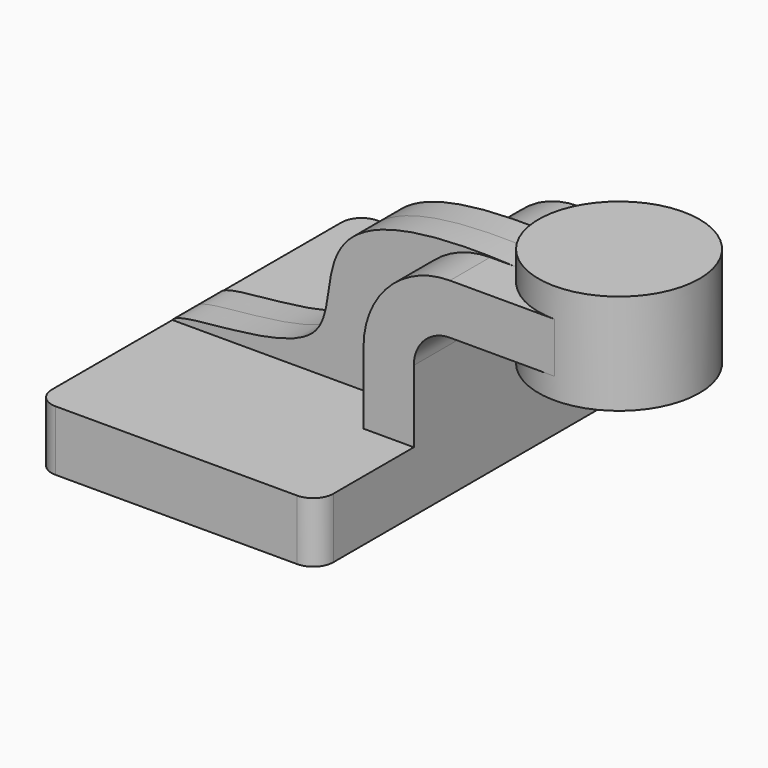
from build123d import *

# Parameters (mm, degrees)
F1_DEPTH = 63.5
F0_W     = 25.4
F0_H     = 15.875
F2_DEPTH = 25.4
F3_DEPTH = 9.525
F5_R     = 6.35


with BuildPart() as f1:
    # F0 (on Front) → F1 (new body, symmetric)
    with BuildSketch(Plane.XZ):
        Polygon((-44.45, -9.525), (44.45, -9.525), (44.45, 9.525), (28.575, 9.525), (-44.45, 9.525), align=None)
    extrude(amount=F1_DEPTH, both=True)

    # F0 (on Front) → F2 (join, symmetric)
    with BuildSketch(Plane.XZ):
        with BuildLine():
            Line((28.575, 9.525), (44.45, 9.525))
            Line((44.45, 9.525), (44.45, 32.2810681378))
            ThreePointArc((44.45, 32.2810681378), (47.7894660102, 40.3432522706), (55.851650143, 43.6827182808))
            Line((55.851650143, 43.6827182808), (63.5, 43.6827182808))
            Line((63.5, 43.6827182808), (63.5, 59.5577182808))
            Line((63.5, 59.5577182808), (55.851650143, 59.5577182808))
            ThreePointArc((55.851650143, 59.5577182808), (36.5641458588, 51.568572422), (28.575, 32.2810681378))
            Line((28.575, 32.2810681378), (28.575, 9.525))
        make_face()
        with Locations((76.2, 51.6202182808)):
            Rectangle(F0_W, F0_H)
    extrude(amount=F2_DEPTH, both=True)

    # F0 (on Front) → F3 (join, symmetric)
    with BuildSketch(Plane.XZ):
        with BuildLine():
            add(Edge.make_bspline(
                [(-44.45, 9.525), (-42.0993748289, 13.5310159807), (31.447590693, 8.169184866), (-11.7146146139, 63.4179972105), (63.5, 59.5577182808)],
                knots=[0, 0, 0, 0, 0.4393913897, 1, 1, 1, 1], degree=3))
            Line((-44.45, 9.525), (28.575, 9.525))
            Line((28.575, 9.525), (28.575, 32.2810681378))
            ThreePointArc((28.575, 32.2810681378), (36.5641458588, 51.568572422), (55.851650143, 59.5577182808))
            Line((55.851650143, 59.5577182808), (63.5, 59.5577182808))
        make_face()
    extrude(amount=F3_DEPTH, both=True)

    # F0 (on Front) → F4 (revolve)
    with BuildSketch(Plane.XZ):
        Polygon((88.9, 68.7322870837), (88.9, 59.5577182808), (88.9, 43.6827182808), (88.9, 36.9822870837), (114.3, 36.9822870837), (114.3, 68.7322870837), align=None)
    revolve(axis=Axis((88.9, 0, 52.8572870837), (0, 0, -1)))

    # F5
    f5_edges = [f1.edges().sort_by_distance(p)[0] for p in [
        (-44.45, -63.5, 0),
        (44.45, -63.5, 0),
        (44.45, 63.5, 0),
        (-44.45, 63.5, 0),
    ]]
    fillet(f5_edges, radius=F5_R)


solid = f1.part
